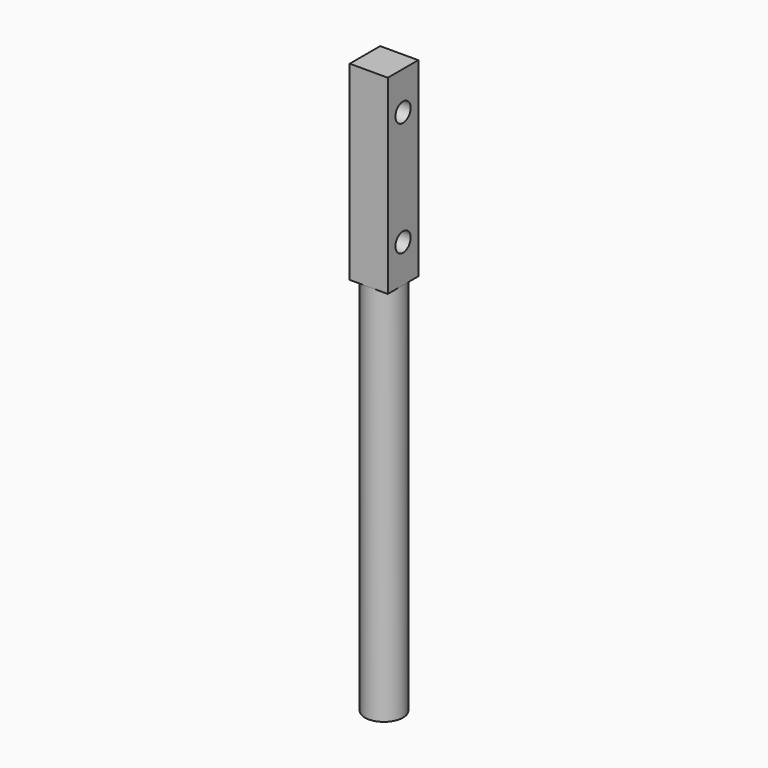
from build123d import *

# Parameters (mm, degrees)
F0_R     = 6.35
F1_DEPTH = 127
F3_DEPTH = 63.5
F5_D     = 6.35


with BuildPart() as f1:
    # F0 (on Top) → F1 (new body)
    with BuildSketch(Plane.XY):
        Circle(F0_R)
    extrude(amount=F1_DEPTH)

    # F2 (on face) → F3 (join)
    with BuildSketch(Plane.XY.offset(127)):
        with BuildLine():
            Line((0, 6.35), (-6.35, 6.35))
            Line((-6.35, 6.35), (-6.35, 0))
            ThreePointArc((-6.35, 0), (-4.490128, 4.490128), (0, 6.35))
        make_face()
        with BuildLine():
            ThreePointArc((6.35, 0), (4.490128, 4.490128), (0, 6.35))
            ThreePointArc((0, 6.35), (-4.490128, 4.490128), (-6.35, 0))
            ThreePointArc((-6.35, 0), (-4.490128, -4.490128), (0, -6.35))
            ThreePointArc((0, -6.35), (4.490128, -4.490128), (6.35, 0))
        make_face()
        with BuildLine():
            Line((6.35, 6.35), (0, 6.35))
            ThreePointArc((0, 6.35), (4.490128, 4.490128), (6.35, 0))
            Line((6.35, 0), (6.35, 6.35))
        make_face()
        with BuildLine():
            Line((6.35, -6.35), (6.35, 0))
            ThreePointArc((6.35, 0), (4.490128, -4.490128), (0, -6.35))
            Line((0, -6.35), (6.35, -6.35))
        make_face()
        with BuildLine():
            ThreePointArc((0, -6.35), (-4.490128, -4.490128), (-6.35, 0))
            Line((-6.35, 0), (-6.35, -6.35))
            Line((-6.35, -6.35), (0, -6.35))
        make_face()
    extrude(amount=F3_DEPTH)

    # F5 (through all)
    with Locations(Plane.YZ.offset(6.35)):
        with Locations((0, 177.8), (0, 139.7)):
            Hole(F5_D / 2)


solid = f1.part
